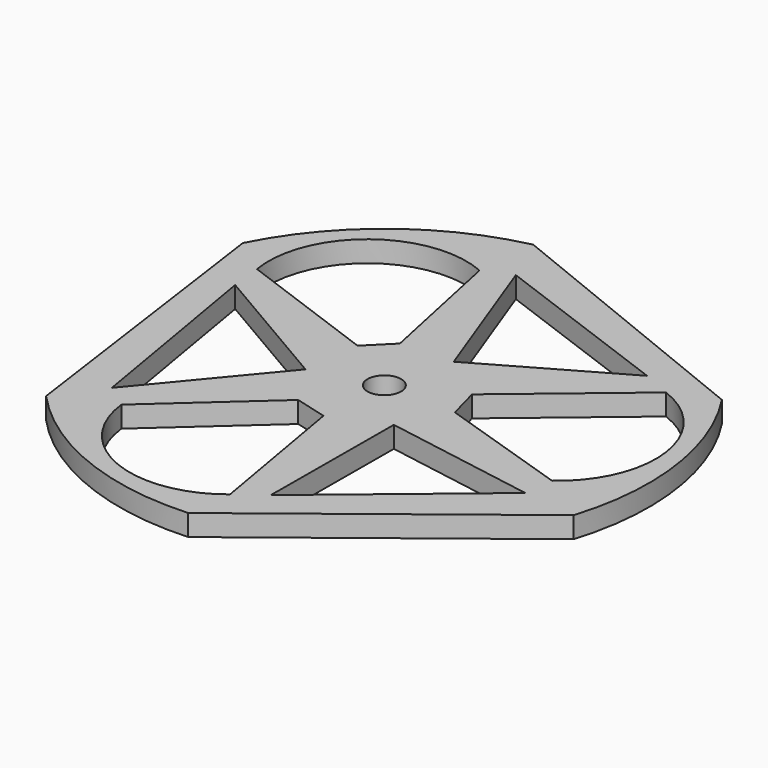
from build123d import *

# Parameters (mm, degrees)
F0_R     = 2.381952
F1_DEPTH = 3


with BuildPart() as f1:
    # F0 (on Top) → F1 (new body)
    with BuildSketch(Plane.XY):
        with BuildLine():
            Line((68.834167, 58.101455), (29.31156, 74.095074))
            ThreePointArc((29.31156, 74.095074), (14.429052, 67.063176), (3.991533, 54.335457))
            Line((3.991533, 54.335457), (9.901956, 12.111066))
            ThreePointArc((9.901956, 12.111066), (23.433013, 2.738385), (39.6743, 0.063087))
            Line((39.6743, 0.063087), (73.286484, 26.29386))
            ThreePointArc((73.286484, 26.29386), (74.637935, 42.698439), (68.834167, 58.101455))
        make_face()
        with BuildLine():
            ThreePointArc((40.494825, 6.446396), (26.332397, 4.297735), (17.687146, 15.71924))
            Line((17.687146, 15.71924), (32.259617, 28.807837))
            Line((32.259617, 28.807837), (36.809699, 27.588646))
            Line((36.809699, 27.588646), (40.494825, 6.446396))
        make_face(mode=Mode.SUBTRACT)
        Polygon((14.346499, 18.206752), (9.604066, 45.958789), (28.299642, 35.034772), align=None, mode=Mode.SUBTRACT)
        Polygon((44.122441, 9.112018), (44.235129, 30.764871), (65.785193, 27.095104), align=None, mode=Mode.SUBTRACT)
        with BuildLine():
            Line((32.592557, 46.384387), (29.261666, 43.053495))
            Line((29.261666, 43.053495), (9.109378, 50.433207))
            ThreePointArc((9.109378, 50.433207), (14.329797, 63.77256), (28.543735, 65.548815))
            Line((28.543735, 65.548815), (32.592557, 46.384387))
        make_face(mode=Mode.SUBTRACT)
        with Locations((37.5, 37.5)):
            Circle(F0_R, mode=Mode.SUBTRACT)
        with BuildLine():
            ThreePointArc((62.895797, 55.620396), (71.837806, 44.429704), (66.269119, 31.231946))
            Line((66.269119, 31.231946), (47.647826, 37.307777))
            Line((47.647826, 37.307777), (46.428635, 41.857859))
            Line((46.428635, 41.857859), (62.895797, 55.620396))
        make_face(mode=Mode.SUBTRACT)
        Polygon((58.773493, 57.429193), (39.965228, 46.700358), (32.368308, 67.198144), align=None, mode=Mode.SUBTRACT)
    extrude(amount=F1_DEPTH)


solid = f1.part
